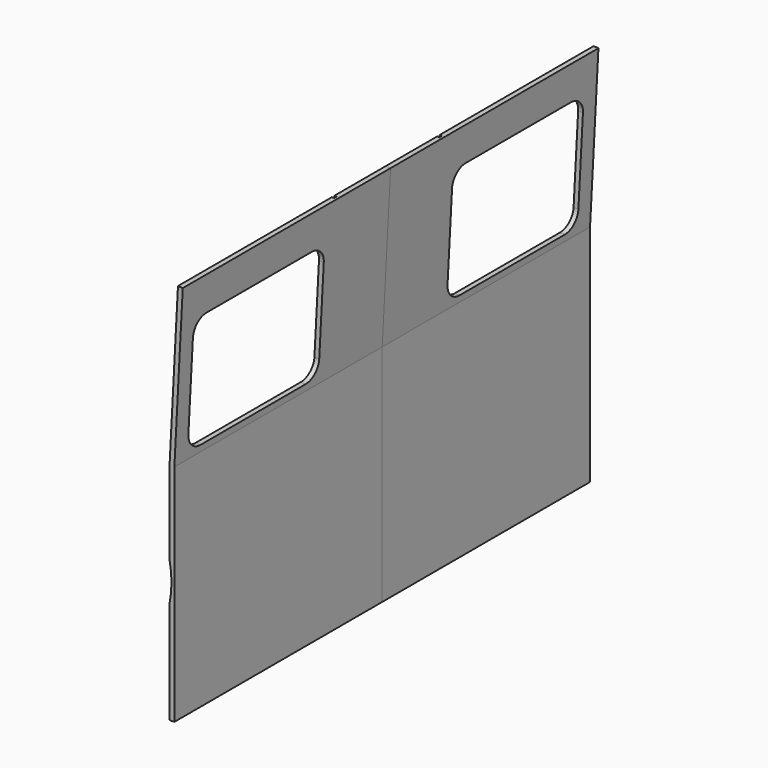
from build123d import *

# Parameters (mm, degrees)
F1_DEPTH = 81
F3_DEPTH = 4.1162588316
F5_DEPTH = 81.001
F6_W     = 1
F6_H     = 70
F7_DEPTH = 0.7
F8_W     = 1
F8_H     = 50.0785039344
F9_DEPTH = 0.7


with BuildPart() as f1:
    # F0 (on Front) → F1 (new body)
    with BuildSketch(Plane.XZ):
        Polygon((0, 70), (0, 0), (1.5, 0), (1.5, 70), (4.1167978121, 119.9314767377), (2.6209063906, 120.0098730852), align=None)
    extrude(amount=-F1_DEPTH)

    # F2 (on face) → F3 (cut, through all)
    with BuildSketch(Plane(origin=(-2.1626047928, 0, 0.1133373147), x_dir=(0, 1, 0), z_dir=(0.9986295348, 0, -0.0523359562))):
        with BuildLine():
            Line((71, 108.9825713672), (30, 108.9825713672))
            ThreePointArc((30, 108.9825713672), (26.4644660941, 107.5181052731), (25, 103.9825713672))
            Line((25, 103.9825713672), (25, 76.9825713672))
            ThreePointArc((25, 76.9825713672), (26.4644660941, 73.4470374613), (30, 71.9825713672))
            Line((30, 71.9825713672), (71, 71.9825713672))
            ThreePointArc((71, 71.9825713672), (74.5355339059, 73.4470374613), (76, 76.9825713672))
            Line((76, 76.9825713672), (76, 103.9825713672))
            ThreePointArc((76, 103.9825713672), (74.5355339059, 107.5181052731), (71, 108.9825713672))
        make_face()
    extrude(amount=-F3_DEPTH, mode=Mode.SUBTRACT)

    # F4 (on face) → F5 (cut, through all)
    with BuildSketch(Plane.XZ):
        with BuildLine():
            ThreePointArc((0, 32), (0.6, 38), (0, 44))
            Line((0, 44), (0, 32))
        make_face()
    extrude(amount=-F5_DEPTH, mode=Mode.SUBTRACT)

    # F6 (on face) → F7 (cut)
    with BuildSketch(Plane(origin=(0, 0, 0), x_dir=(0, -1, 0), z_dir=(-1, 0, 0))):
        with Locations((-20.5, 35)):
            Rectangle(F6_W, F6_H)
    extrude(amount=-F7_DEPTH, mode=Mode.SUBTRACT)

    # F8 (on face) → F9 (cut)
    with BuildSketch(Plane(origin=(-3.6584962144, 0, 0.1917336621), x_dir=(0, -1, 0), z_dir=(-0.9986295348, 0, 0.0523359562))):
        with Locations((-20.5, 94.9433194)):
            Rectangle(F8_W, F8_H)
    extrude(amount=-F9_DEPTH, mode=Mode.SUBTRACT)


with BuildPart() as f10_1:
    # F10: instance of F1
    add(f1.part.mirror(Plane.XZ))


solid = Compound([f1.part, f10_1.part])
